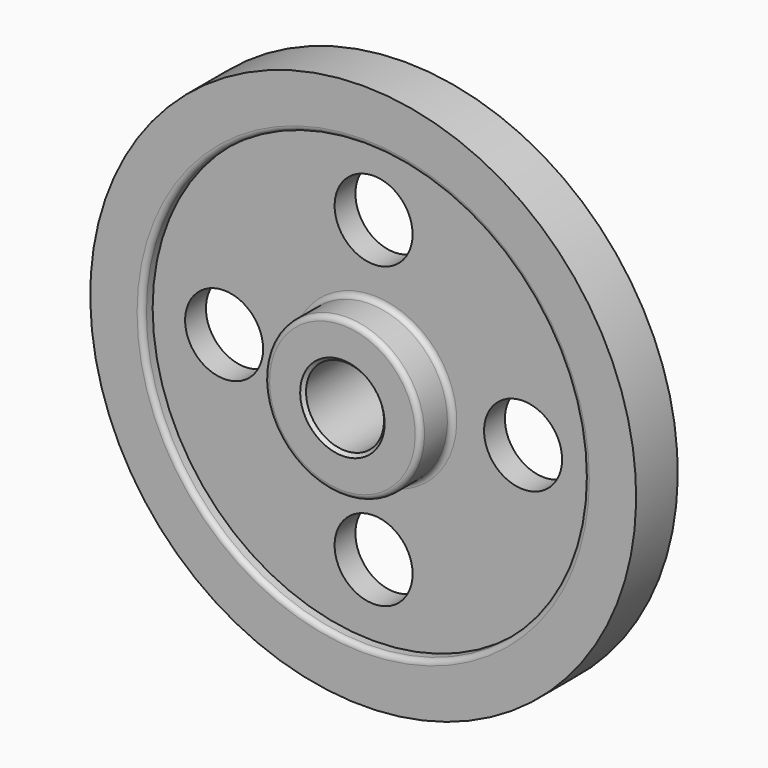
from build123d import *

# Parameters (mm, degrees)
F2_R     = 19.05
F3_DEPTH = 25.4
F4_R     = 2.54
F5_R     = 2.54
F6_SIZE  = 1.5875


with BuildPart() as f1:
    # F0 (on Right) → F1 (revolve)
    with BuildSketch(Plane.YZ):
        Polygon((-25.4, 19.05), (0, 19.05), (25.4, 19.05), (25.4, 38.1), (6.35, 38.1), (6.35, 107.95), (12.7, 107.95), (12.7, 133.35), (0, 133.35), (-12.7, 133.35), (-12.7, 107.95), (-6.35, 107.95), (-6.35, 38.1), (-25.4, 38.1), align=None)
    revolve(axis=Axis((0, 12.7, 0), (0, 1, 0)))

    # F2 (on face) → F3 (cut)
    with BuildSketch(Plane.XZ.offset(6.35)):
        with BuildLine():
            ThreePointArc((19.05, 73.025), (-13.4703841816, 86.4953841816), (0, 53.975))
            ThreePointArc((0, 53.975), (13.4703841816, 59.5546158184), (19.05, 73.025))
        make_face()
        with Locations((73.025, 0)):
            Circle(F2_R)
        with Locations((0, -73.025)):
            Circle(F2_R)
        with Locations((-73.025, 0)):
            Circle(F2_R)
    extrude(amount=-F3_DEPTH, mode=Mode.SUBTRACT)

    # F4
    f4_edges = [f1.edges().sort_by_distance(p)[0] for p in [
        (0, -12.7, -107.95),
        (0, -25.4, -38.1),
        (0, -6.35, -38.1),
        (0, 25.4, -38.1),
    ]]
    fillet(f4_edges, radius=F4_R)

    # F5
    f5_edges = [f1.edges().sort_by_distance(p)[0] for p in [
        (0, 25.4, -35.56),
        (0, 22.86, -38.1),
        (0, 6.35, -107.95),
        (0, 12.7, -107.95),
    ]]
    fillet(f5_edges, radius=F5_R)

    # F6
    f6_edges = [f1.edges().sort_by_distance(p)[0] for p in [
        (0, -25.4, -19.05),
        (0, 0, 19.05),
        (0, 25.4, -19.05),
    ]]
    chamfer(f6_edges, length=F6_SIZE)


solid = f1.part
